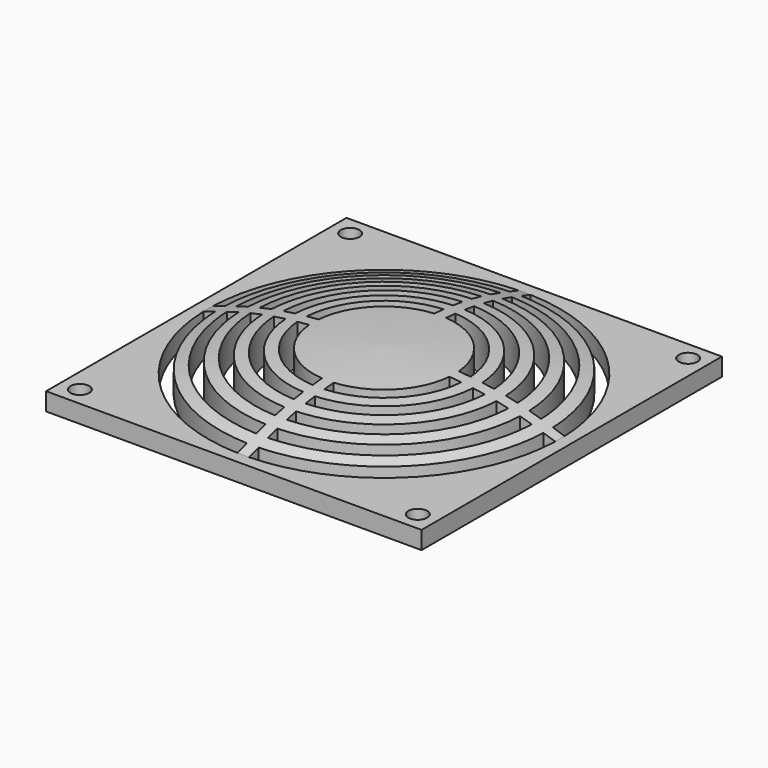
from build123d import *

# Parameters (mm, degrees)
F0_R     = 2
F1_DEPTH = 25


with BuildPart() as f1:
    # F0 (on Top) → F1 (new body)
    with BuildSketch(Plane.XY):
        Polygon((40, 1.25), (40, 40), (1.25, 40), (-1.25, 40), (-40, 40), (-40, 1.25), (-40, -1.25), (-40, -40), (-1.25, -40), (1.25, -40), (40, -40), (40, -1.25), align=None)
        with Locations((-36, -36)):
            Circle(F0_R, mode=Mode.SUBTRACT)
        with Locations((36, -36)):
            Circle(F0_R, mode=Mode.SUBTRACT)
        with Locations((-36, 36)):
            Circle(F0_R, mode=Mode.SUBTRACT)
        with BuildLine():
            ThreePointArc((37.4791608764, 1.25), (37.4947898572, 0.6250868478), (37.5, 0))
            ThreePointArc((37.5, 0), (37.4947898572, -0.6250868478), (37.4791608764, -1.25))
            ThreePointArc((37.4791608764, -1.25), (26.5165042945, -26.5165042945), (1.25, -37.4791608764))
            ThreePointArc((1.25, -37.4791608764), (0, -37.5), (-1.25, -37.4791608764))
            ThreePointArc((-1.25, -37.4791608764), (-26.5165042945, -26.5165042945), (-37.4791608764, -1.25))
            ThreePointArc((-37.4791608764, -1.25), (-37.5, 0), (-37.4791608764, 1.25))
            ThreePointArc((-37.4791608764, 1.25), (-26.5165042945, 26.5165042945), (-1.25, 37.4791608764))
            ThreePointArc((-1.25, 37.4791608764), (0, 37.5), (1.25, 37.4791608764))
            ThreePointArc((1.25, 37.4791608764), (26.5165042945, 26.5165042945), (37.4791608764, 1.25))
        make_face(mode=Mode.SUBTRACT)
        with Locations((36, 36)):
            Circle(F0_R, mode=Mode.SUBTRACT)
        with BuildLine():
            ThreePointArc((35, 0), (34.9944174171, 0.6250997049), (34.9776714491, 1.25))
            ThreePointArc((34.9776714491, 1.25), (24.7487373415, 24.7487373415), (1.25, 34.9776714491))
            ThreePointArc((1.25, 34.9776714491), (0, 35), (-1.25, 34.9776714491))
            ThreePointArc((-1.25, 34.9776714491), (-24.7487373415, 24.7487373415), (-34.9776714491, 1.25))
            ThreePointArc((-34.9776714491, 1.25), (-35, 0), (-34.9776714491, -1.25))
            ThreePointArc((-34.9776714491, -1.25), (-24.7487373415, -24.7487373415), (-1.25, -34.9776714491))
            ThreePointArc((-1.25, -34.9776714491), (0, -35), (1.25, -34.9776714491))
            ThreePointArc((1.25, -34.9776714491), (24.7487373415, -24.7487373415), (34.9776714491, -1.25))
            ThreePointArc((34.9776714491, -1.25), (34.9944174171, -0.6250997049), (35, 0))
        make_face()
        with BuildLine():
            ThreePointArc((32.4759526419, 1.25), (32.4939876043, 0.6251156444), (32.5, 0))
            ThreePointArc((32.5, 0), (32.4939876043, -0.6251156444), (32.4759526419, -1.25))
            ThreePointArc((32.4759526419, -1.25), (22.9809703886, -22.9809703886), (1.25, -32.4759526419))
            ThreePointArc((1.25, -32.4759526419), (0, -32.5), (-1.25, -32.4759526419))
            ThreePointArc((-1.25, -32.4759526419), (-22.9809703886, -22.9809703886), (-32.4759526419, -1.25))
            ThreePointArc((-32.4759526419, -1.25), (-32.5, 0), (-32.4759526419, 1.25))
            ThreePointArc((-32.4759526419, 1.25), (-22.9809703886, 22.9809703886), (-1.25, 32.4759526419))
            ThreePointArc((-1.25, 32.4759526419), (0, 32.5), (1.25, 32.4759526419))
            ThreePointArc((1.25, 32.4759526419), (22.9809703886, 22.9809703886), (32.4759526419, 1.25))
        make_face(mode=Mode.SUBTRACT)
        with BuildLine():
            Line((-34.9776714491, 1.25), (-37.4791608764, 1.25))
            ThreePointArc((-37.4791608764, 1.25), (-37.5, 0), (-37.4791608764, -1.25))
            Line((-37.4791608764, -1.25), (-34.9776714491, -1.25))
            ThreePointArc((-34.9776714491, -1.25), (-35, 0), (-34.9776714491, 1.25))
        make_face()
        with BuildLine():
            Line((-29.9739470207, 1.25), (-32.4759526419, 1.25))
            ThreePointArc((-32.4759526419, 1.25), (-32.5, 0), (-32.4759526419, -1.25))
            Line((-32.4759526419, -1.25), (-29.9739470207, -1.25))
            ThreePointArc((-29.9739470207, -1.25), (-30, 0), (-29.9739470207, 1.25))
        make_face()
        with BuildLine():
            ThreePointArc((30, 0), (29.993486048, 0.6251357368), (29.9739470207, 1.25))
            ThreePointArc((29.9739470207, 1.25), (21.2132034356, 21.2132034356), (1.25, 29.9739470207))
            ThreePointArc((1.25, 29.9739470207), (0, 30), (-1.25, 29.9739470207))
            ThreePointArc((-1.25, 29.9739470207), (-21.2132034356, 21.2132034356), (-29.9739470207, 1.25))
            ThreePointArc((-29.9739470207, 1.25), (-30, 0), (-29.9739470207, -1.25))
            ThreePointArc((-29.9739470207, -1.25), (-21.2132034356, -21.2132034356), (-1.25, -29.9739470207))
            ThreePointArc((-1.25, -29.9739470207), (0, -30), (1.25, -29.9739470207))
            ThreePointArc((1.25, -29.9739470207), (21.2132034356, -21.2132034356), (29.9739470207, -1.25))
            ThreePointArc((29.9739470207, -1.25), (29.993486048, -0.6251357368), (30, 0))
        make_face()
        with BuildLine():
            ThreePointArc((27.4715762198, 1.25), (27.4928931366, 0.6251615614), (27.5, 0))
            ThreePointArc((27.5, 0), (27.4928931366, -0.6251615614), (27.4715762198, -1.25))
            ThreePointArc((27.4715762198, -1.25), (19.4454364826, -19.4454364826), (1.25, -27.4715762198))
            ThreePointArc((1.25, -27.4715762198), (0, -27.5), (-1.25, -27.4715762198))
            ThreePointArc((-1.25, -27.4715762198), (-19.4454364826, -19.4454364826), (-27.4715762198, -1.25))
            ThreePointArc((-27.4715762198, -1.25), (-27.5, 0), (-27.4715762198, 1.25))
            ThreePointArc((-27.4715762198, 1.25), (-19.4454364826, 19.4454364826), (-1.25, 27.4715762198))
            ThreePointArc((-1.25, 27.4715762198), (0, 27.5), (1.25, 27.4715762198))
            ThreePointArc((1.25, 27.4715762198), (19.4454364826, 19.4454364826), (27.4715762198, 1.25))
        make_face(mode=Mode.SUBTRACT)
        with BuildLine():
            Line((-24.9687304443, 1.25), (-27.4715762198, 1.25))
            ThreePointArc((-27.4715762198, 1.25), (-27.5, 0), (-27.4715762198, -1.25))
            Line((-27.4715762198, -1.25), (-24.9687304443, -1.25))
            ThreePointArc((-24.9687304443, -1.25), (-25, 0), (-24.9687304443, 1.25))
        make_face()
        with BuildLine():
            ThreePointArc((25, 0), (24.9921813885, 0.6251955264), (24.9687304443, 1.25))
            ThreePointArc((24.9687304443, 1.25), (17.6776695297, 17.6776695297), (1.25, 24.9687304443))
            ThreePointArc((1.25, 24.9687304443), (0, 25), (-1.25, 24.9687304443))
            ThreePointArc((-1.25, 24.9687304443), (-17.6776695297, 17.6776695297), (-24.9687304443, 1.25))
            ThreePointArc((-24.9687304443, 1.25), (-25, 0), (-24.9687304443, -1.25))
            ThreePointArc((-24.9687304443, -1.25), (-17.6776695297, -17.6776695297), (-1.25, -24.9687304443))
            ThreePointArc((-1.25, -24.9687304443), (0, -25), (1.25, -24.9687304443))
            ThreePointArc((1.25, -24.9687304443), (17.6776695297, -17.6776695297), (24.9687304443, -1.25))
            ThreePointArc((24.9687304443, -1.25), (24.9921813885, -0.6251955264), (25, 0))
        make_face()
        with BuildLine():
            ThreePointArc((1.25, 22.4652509445), (15.9099025767, 15.9099025767), (22.4652509445, 1.25))
            ThreePointArc((22.4652509445, 1.25), (22.4913110584, 0.6252414527), (22.5, 0))
            ThreePointArc((22.5, 0), (22.4913110584, -0.6252414527), (22.4652509445, -1.25))
            ThreePointArc((22.4652509445, -1.25), (15.9099025767, -15.9099025767), (1.25, -22.4652509445))
            ThreePointArc((1.25, -22.4652509445), (0, -22.5), (-1.25, -22.4652509445))
            ThreePointArc((-1.25, -22.4652509445), (-15.9099025767, -15.9099025767), (-22.4652509445, -1.25))
            ThreePointArc((-22.4652509445, -1.25), (-22.5, 0), (-22.4652509445, 1.25))
            ThreePointArc((-22.4652509445, 1.25), (-15.9099025767, 15.9099025767), (-1.25, 22.4652509445))
            ThreePointArc((-1.25, 22.4652509445), (0, 22.5), (1.25, 22.4652509445))
        make_face(mode=Mode.SUBTRACT)
        with BuildLine():
            ThreePointArc((-19.9608992783, -1.25), (-20, 0), (-19.9608992783, 1.25))
            Line((-19.9608992783, 1.25), (-22.4652509445, 1.25))
            ThreePointArc((-22.4652509445, 1.25), (-22.5, 0), (-22.4652509445, -1.25))
            Line((-22.4652509445, -1.25), (-19.9608992783, -1.25))
        make_face()
        with BuildLine():
            ThreePointArc((19.9608992783, -1.25), (19.9902224296, -0.6253056985), (20, 0))
            ThreePointArc((20, 0), (19.9902224296, 0.6253056985), (19.9608992783, 1.25))
            ThreePointArc((19.9608992783, 1.25), (14.1421356237, 14.1421356237), (1.25, 19.9608992783))
            ThreePointArc((1.25, 19.9608992783), (0, 20), (-1.25, 19.9608992783))
            ThreePointArc((-1.25, 19.9608992783), (-14.1421356237, 14.1421356237), (-19.9608992783, 1.25))
            ThreePointArc((-19.9608992783, 1.25), (-20, 0), (-19.9608992783, -1.25))
            ThreePointArc((-19.9608992783, -1.25), (-14.1421356237, -14.1421356237), (-1.25, -19.9608992783))
            ThreePointArc((-1.25, -19.9608992783), (0, -20), (1.25, -19.9608992783))
            ThreePointArc((1.25, -19.9608992783), (14.1421356237, -14.1421356237), (19.9608992783, -1.25))
        make_face()
        with BuildLine():
            ThreePointArc((1.25, 17.4553000547), (12.3743686708, 12.3743686708), (17.4553000547, 1.25))
            ThreePointArc((17.4553000547, 1.25), (17.4888214434, 0.6253994893), (17.5, 0))
            ThreePointArc((17.5, 0), (17.4888214434, -0.6253994893), (17.4553000547, -1.25))
            ThreePointArc((17.4553000547, -1.25), (12.3743686708, -12.3743686708), (1.25, -17.4553000547))
            ThreePointArc((1.25, -17.4553000547), (0, -17.5), (-1.25, -17.4553000547))
            ThreePointArc((-1.25, -17.4553000547), (-12.3743686708, -12.3743686708), (-17.4553000547, -1.25))
            ThreePointArc((-17.4553000547, -1.25), (-17.5, 0), (-17.4553000547, 1.25))
            ThreePointArc((-17.4553000547, 1.25), (-12.3743686708, 12.3743686708), (-1.25, 17.4553000547))
            ThreePointArc((-1.25, 17.4553000547), (0, 17.5), (1.25, 17.4553000547))
        make_face(mode=Mode.SUBTRACT)
        with BuildLine():
            ThreePointArc((-14.9478259289, -1.25), (-15, 0), (-14.9478259289, 1.25))
            Line((-14.9478259289, 1.25), (-17.4553000547, 1.25))
            ThreePointArc((-17.4553000547, 1.25), (-17.5, 0), (-17.4553000547, -1.25))
            Line((-17.4553000547, -1.25), (-14.9478259289, -1.25))
        make_face()
        with BuildLine():
            ThreePointArc((14.9478259289, -1.25), (14.9869508062, -0.6255441898), (15, 0))
            ThreePointArc((15, 0), (14.9869508062, 0.6255441898), (14.9478259289, 1.25))
            ThreePointArc((14.9478259289, 1.25), (10.6066017178, 10.6066017178), (1.25, 14.9478259289))
            ThreePointArc((1.25, 14.9478259289), (0, 15), (-1.25, 14.9478259289))
            ThreePointArc((-1.25, 14.9478259289), (-10.6066017178, 10.6066017178), (-14.9478259289, 1.25))
            ThreePointArc((-14.9478259289, 1.25), (-15, 0), (-14.9478259289, -1.25))
            ThreePointArc((-14.9478259289, -1.25), (-10.6066017178, -10.6066017178), (-1.25, -14.9478259289))
            ThreePointArc((-1.25, -14.9478259289), (0, -15), (1.25, -14.9478259289))
            ThreePointArc((1.25, -14.9478259289), (10.6066017178, -10.6066017178), (14.9478259289, -1.25))
        make_face()
        with BuildLine():
            ThreePointArc((14.9478259289, 1.25), (14.9869508062, 0.6255441898), (15, 0))
            ThreePointArc((15, 0), (14.9869508062, -0.6255441898), (14.9478259289, -1.25))
            Line((14.9478259289, -1.25), (17.4553000547, -1.25))
            ThreePointArc((17.4553000547, -1.25), (17.4888214434, -0.6253994893), (17.5, 0))
            ThreePointArc((17.5, 0), (17.4888214434, 0.6253994893), (17.4553000547, 1.25))
            Line((17.4553000547, 1.25), (14.9478259289, 1.25))
        make_face()
        with BuildLine():
            ThreePointArc((19.9608992783, 1.25), (19.9902224296, 0.6253056985), (20, 0))
            ThreePointArc((20, 0), (19.9902224296, -0.6253056985), (19.9608992783, -1.25))
            Line((19.9608992783, -1.25), (22.4652509445, -1.25))
            ThreePointArc((22.4652509445, -1.25), (22.4913110584, -0.6252414527), (22.5, 0))
            ThreePointArc((22.5, 0), (22.4913110584, 0.6252414527), (22.4652509445, 1.25))
            Line((22.4652509445, 1.25), (19.9608992783, 1.25))
        make_face()
        with BuildLine():
            ThreePointArc((27.4715762198, -1.25), (27.4928931366, -0.6251615614), (27.5, 0))
            ThreePointArc((27.5, 0), (27.4928931366, 0.6251615614), (27.4715762198, 1.25))
            Line((27.4715762198, 1.25), (24.9687304443, 1.25))
            ThreePointArc((24.9687304443, 1.25), (24.9921813885, 0.6251955264), (25, 0))
            ThreePointArc((25, 0), (24.9921813885, -0.6251955264), (24.9687304443, -1.25))
            Line((24.9687304443, -1.25), (27.4715762198, -1.25))
        make_face()
        with BuildLine():
            ThreePointArc((32.4759526419, -1.25), (32.4939876043, -0.6251156444), (32.5, 0))
            ThreePointArc((32.5, 0), (32.4939876043, 0.6251156444), (32.4759526419, 1.25))
            Line((32.4759526419, 1.25), (29.9739470207, 1.25))
            ThreePointArc((29.9739470207, 1.25), (29.993486048, 0.6251357368), (30, 0))
            ThreePointArc((30, 0), (29.993486048, -0.6251357368), (29.9739470207, -1.25))
            Line((29.9739470207, -1.25), (32.4759526419, -1.25))
        make_face()
        with BuildLine():
            ThreePointArc((37.4791608764, -1.25), (37.4947898572, -0.6250868478), (37.5, 0))
            ThreePointArc((37.5, 0), (37.4947898572, 0.6250868478), (37.4791608764, 1.25))
            Line((37.4791608764, 1.25), (34.9776714491, 1.25))
            ThreePointArc((34.9776714491, 1.25), (34.9944174171, 0.6250997049), (35, 0))
            ThreePointArc((35, 0), (34.9944174171, -0.6250997049), (34.9776714491, -1.25))
            Line((34.9776714491, -1.25), (37.4791608764, -1.25))
        make_face()
        with BuildLine():
            ThreePointArc((-1.25, 14.9478259289), (0, 15), (1.25, 14.9478259289))
            Line((1.25, 14.9478259289), (1.25, 17.4553000547))
            ThreePointArc((1.25, 17.4553000547), (0, 17.5), (-1.25, 17.4553000547))
            Line((-1.25, 17.4553000547), (-1.25, 14.9478259289))
        make_face()
        with BuildLine():
            ThreePointArc((-1.25, 19.9608992783), (0, 20), (1.25, 19.9608992783))
            Line((1.25, 19.9608992783), (1.25, 22.4652509445))
            ThreePointArc((1.25, 22.4652509445), (0, 22.5), (-1.25, 22.4652509445))
            Line((-1.25, 22.4652509445), (-1.25, 19.9608992783))
        make_face()
        with BuildLine():
            Line((1.25, 24.9687304443), (1.25, 27.4715762198))
            ThreePointArc((1.25, 27.4715762198), (0, 27.5), (-1.25, 27.4715762198))
            Line((-1.25, 27.4715762198), (-1.25, 24.9687304443))
            ThreePointArc((-1.25, 24.9687304443), (0, 25), (1.25, 24.9687304443))
        make_face()
        with BuildLine():
            Line((1.25, 29.9739470207), (1.25, 32.4759526419))
            ThreePointArc((1.25, 32.4759526419), (0, 32.5), (-1.25, 32.4759526419))
            Line((-1.25, 32.4759526419), (-1.25, 29.9739470207))
            ThreePointArc((-1.25, 29.9739470207), (0, 30), (1.25, 29.9739470207))
        make_face()
        with BuildLine():
            Line((1.25, 34.9776714491), (1.25, 37.4791608764))
            ThreePointArc((1.25, 37.4791608764), (0, 37.5), (-1.25, 37.4791608764))
            Line((-1.25, 37.4791608764), (-1.25, 34.9776714491))
            ThreePointArc((-1.25, 34.9776714491), (0, 35), (1.25, 34.9776714491))
        make_face()
        with BuildLine():
            Line((1.25, -17.4553000547), (1.25, -14.9478259289))
            ThreePointArc((1.25, -14.9478259289), (0, -15), (-1.25, -14.9478259289))
            Line((-1.25, -14.9478259289), (-1.25, -17.4553000547))
            ThreePointArc((-1.25, -17.4553000547), (0, -17.5), (1.25, -17.4553000547))
        make_face()
        with BuildLine():
            Line((1.25, -22.4652509445), (1.25, -19.9608992783))
            ThreePointArc((1.25, -19.9608992783), (0, -20), (-1.25, -19.9608992783))
            Line((-1.25, -19.9608992783), (-1.25, -22.4652509445))
            ThreePointArc((-1.25, -22.4652509445), (0, -22.5), (1.25, -22.4652509445))
        make_face()
        with BuildLine():
            ThreePointArc((-1.25, -27.4715762198), (0, -27.5), (1.25, -27.4715762198))
            Line((1.25, -27.4715762198), (1.25, -24.9687304443))
            ThreePointArc((1.25, -24.9687304443), (0, -25), (-1.25, -24.9687304443))
            Line((-1.25, -24.9687304443), (-1.25, -27.4715762198))
        make_face()
        with BuildLine():
            ThreePointArc((-1.25, -32.4759526419), (0, -32.5), (1.25, -32.4759526419))
            Line((1.25, -32.4759526419), (1.25, -29.9739470207))
            ThreePointArc((1.25, -29.9739470207), (0, -30), (-1.25, -29.9739470207))
            Line((-1.25, -29.9739470207), (-1.25, -32.4759526419))
        make_face()
        with BuildLine():
            ThreePointArc((-1.25, -37.4791608764), (0, -37.5), (1.25, -37.4791608764))
            Line((1.25, -37.4791608764), (1.25, -34.9776714491))
            ThreePointArc((1.25, -34.9776714491), (0, -35), (-1.25, -34.9776714491))
            Line((-1.25, -34.9776714491), (-1.25, -37.4791608764))
        make_face()
    extrude(amount=F1_DEPTH)

    # F2 (on Front) → F4 (revolve, cut)
    with BuildSketch(Plane.XZ):
        with BuildLine():
            Line((-70.6234127283, 3.8), (-37.5, 3.8))
            add(Edge.make_bspline(
                [(-37.5, 3.8), (-32.9872858066, 5.2823646773), (-22.8664577769, 8.6069177807), (-8.1529768078, 9.0937859575), (0, 9.3635674566)],
                knots=[0, 0, 0, 0, 0.4458838921, 1, 1, 1, 1], degree=3))
            Line((0, 9.3635674566), (0, 49.1611771286))
            Line((0, 49.1611771286), (-70.6234127283, 49.1611771286))
            Line((-70.6234127283, 49.1611771286), (-70.6234127283, 3.8))
        make_face()
    revolve(axis=Axis((0, 0, 10.2340187877), (0, 0, 1)), mode=Mode.SUBTRACT)


solid = f1.part
